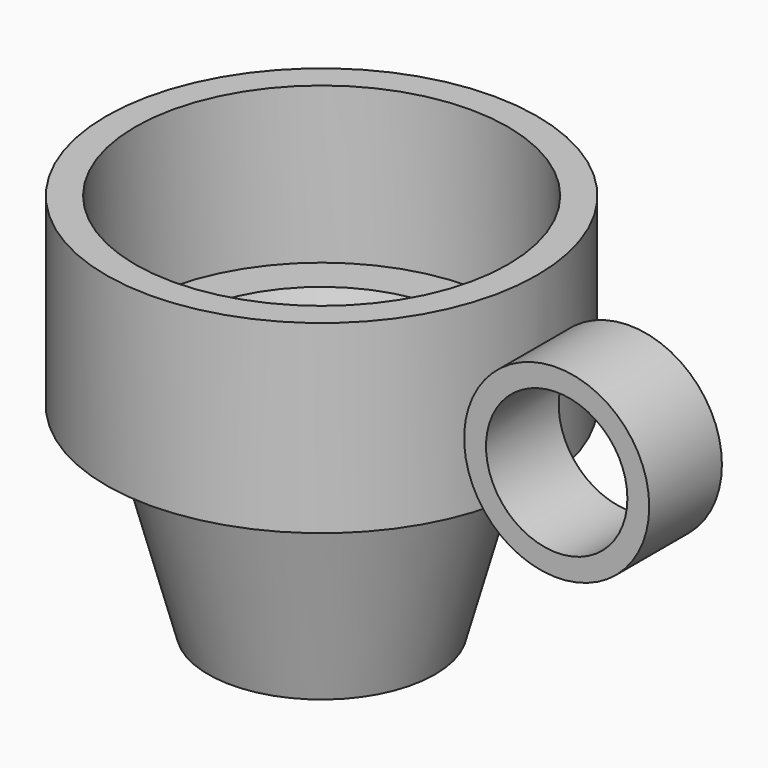
from build123d import *

# Parameters (mm, degrees)
F2_R     = 25.470351
F2_R_2   = 19.454516
F3_DEPTH = 25


with BuildPart() as f1:
    # F0 (on Front) → F1 (revolve)
    with BuildSketch(Plane.XZ):
        Polygon((25.09743, -41.101545), (0, -41.101545), (0, -49.096275), (31.210871, -49.096275), (46.123819, 5.827051), (59.280757, 5.827051), (59.280757, 56.741983), (51.286027, 56.741983), (51.286027, 13.821781), (40.010378, 13.821781), align=None)
    revolve(axis=Axis((0, 0, -45.09891), (0, 0, -1)))

    # F2 (on Front) → F3 (join)
    with BuildSketch(Plane.XZ):
        with Locations((84.688164, 27.397014)):
            Circle(F2_R)
        with Locations((84.688164, 27.397014)):
            Circle(F2_R_2, mode=Mode.SUBTRACT)
    extrude(amount=F3_DEPTH)


solid = f1.part
